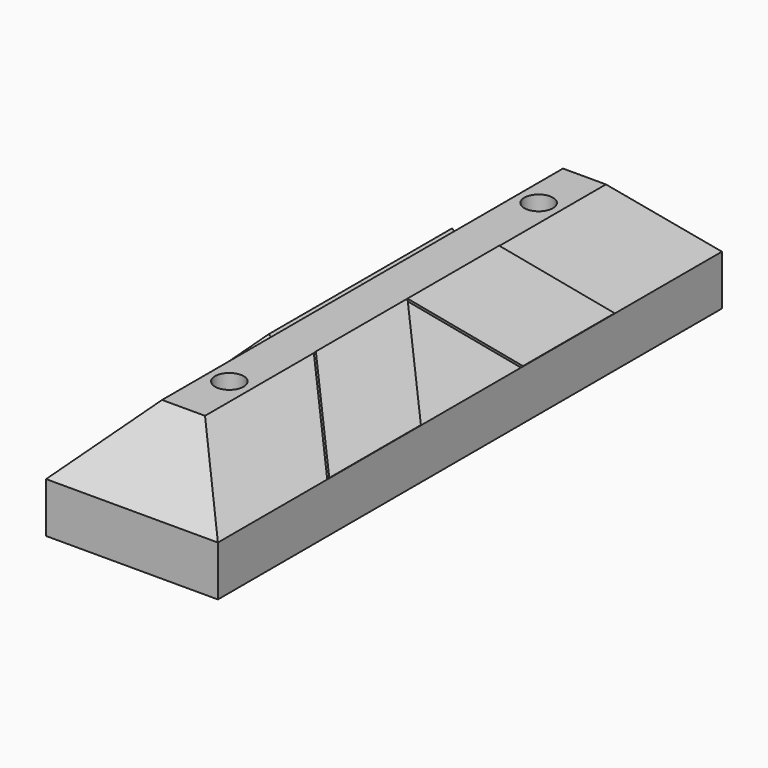
from build123d import *

# Parameters (mm, degrees)
F0_W      = 152.4
F0_H      = 101.6
F1_DEPTH  = 558.8
F2_SIZE   = 57.15
F5_DEPTH  = 2.54
F8_R      = 12.7
F8_R_2    = 6.35
F9_DEPTH  = 25.4
F10_DEPTH = 101.601


with BuildPart() as f1:
    # F0 (on Front) → F1 (new body)
    with BuildSketch(Plane.XZ):
        Rectangle(F0_W, F0_H)
    extrude(amount=-F1_DEPTH)

    # F2
    f2_edges = [f1.edges().sort_by_distance(p)[0] for p in [
        (76.2, 279.4, 50.8),
        (0, 0, 50.8),
        (-76.2, 279.4, 50.8),
        (0, 558.8, 50.8),
    ]]
    chamfer(f2_edges, length=F2_SIZE)

    # F8 (on face) → F9 (cut)
    with BuildSketch(Plane.XY.offset(50.8)):
        with Locations((0, 107.95)):
            Circle(F8_R)
        with Locations((0, 107.95)):
            Circle(F8_R_2, mode=Mode.SUBTRACT)
        with Locations((0, 450.85)):
            Circle(F8_R)
        with Locations((0, 450.85)):
            Circle(F8_R_2, mode=Mode.SUBTRACT)
    extrude(amount=-F9_DEPTH, mode=Mode.SUBTRACT)

    # F10 (cut, through all): faces of the model
    f10_faces = [f1.faces().sort_by_distance(p)[0] for p in [
        (0, 107.95, 50.8),
        (0, 450.85, 50.8),
    ]]
    extrude(f10_faces, amount=-F10_DEPTH, mode=Mode.SUBTRACT)


with BuildPart() as f5:
    # F4 (on face) → F5 (new body)
    with BuildSketch(Plane(origin=(34.925, 0, 34.925), x_dir=(0.7071067812, 0, -0.7071067812), z_dir=(0.7071067812, 0, 0.7071067812))):
        Polygon((58.3716647869, 222.8076127208), (-22.4506403027, 279.4), (-22.4506403027, 177.8), (58.3716647869, 121.2076127208), align=None)
    extrude(amount=F5_DEPTH)


with BuildPart() as f6_1:
    # F6: instance of F5
    add(f5.part.mirror(Plane.XZ.offset(-279.4)))


with BuildPart() as f7_1:
    # F7: instance of F5
    add(f5.part.mirror(Plane.YZ))


with BuildPart() as f7_2:
    # F7: instance of F6_1
    add(f6_1.part.mirror(Plane.YZ))


solid = Compound([f1.part, f5.part, f6_1.part, f7_1.part, f7_2.part])
